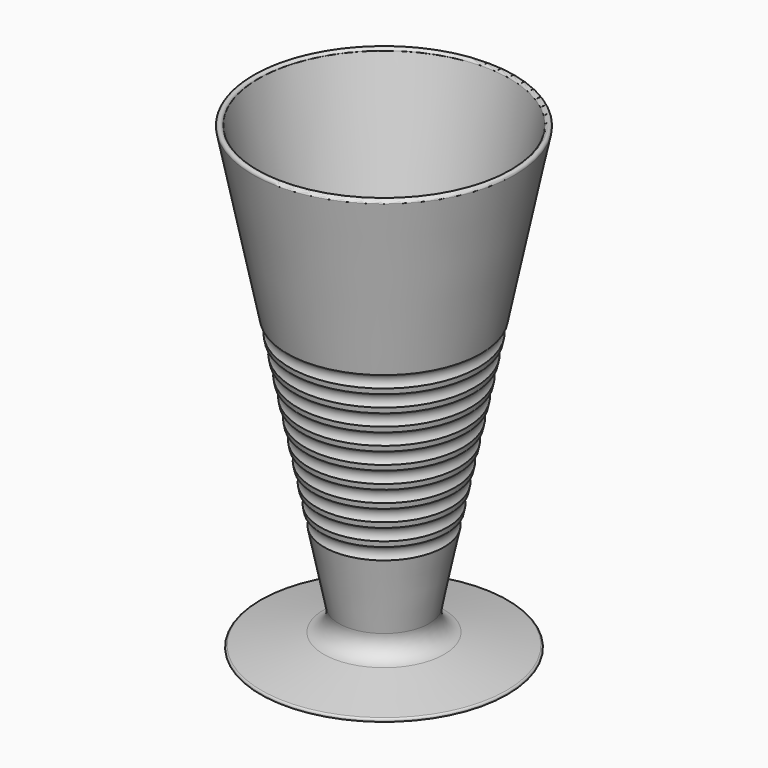
from build123d import *


with BuildPart() as f1:
    # F0 (on Front) → F1 (revolve)
    with BuildSketch(Plane.XZ):
        with BuildLine():
            ThreePointArc((16.017715, 4.047036), (12.78063, 6.165842), (12.024405, 9.960072))
            Line((12.024405, 9.960072), (15.914427, 29.09898))
            ThreePointArc((15.914427, 29.09898), (15.535061, 30.997949), (16.62564, 32.598148))
            Line((16.62564, 32.598148), (16.930687, 34.09898))
            ThreePointArc((16.930687, 34.09898), (16.551321, 35.997949), (17.6419, 37.598148))
            Line((17.6419, 37.598148), (17.946947, 39.09898))
            ThreePointArc((17.946947, 39.09898), (17.567581, 40.997949), (18.65816, 42.598148))
            Line((18.65816, 42.598148), (18.963207, 44.09898))
            ThreePointArc((18.963207, 44.09898), (18.583842, 45.997949), (19.67442, 47.598148))
            Line((19.67442, 47.598148), (19.979468, 49.09898))
            ThreePointArc((19.979468, 49.09898), (19.600102, 50.997949), (20.69068, 52.598148))
            Line((20.69068, 52.598148), (20.995728, 54.09898))
            ThreePointArc((20.995728, 54.09898), (20.616362, 55.997949), (21.706941, 57.598148))
            Line((21.706941, 57.598148), (22.011988, 59.09898))
            ThreePointArc((22.011988, 59.09898), (21.632622, 60.997949), (22.723201, 62.598148))
            Line((22.723201, 62.598148), (23.028248, 64.09898))
            ThreePointArc((23.028248, 64.09898), (22.648882, 65.997949), (23.739461, 67.598148))
            Line((23.739461, 67.598148), (24.044508, 69.09898))
            ThreePointArc((24.044508, 69.09898), (23.665142, 70.997949), (24.755721, 72.598148))
            Line((24.755721, 72.598148), (25.060768, 74.09898))
            ThreePointArc((25.060768, 74.09898), (24.681403, 75.997949), (25.771981, 77.598148))
            Line((25.771981, 77.598148), (34.885069, 122.434542))
            ThreePointArc((34.885069, 122.434542), (34.299482, 123.318899), (33.415125, 122.733311))
            Line((33.415125, 122.733311), (15.298771, 33.600849))
            ThreePointArc((15.298771, 33.600849), (11.118729, 26.687726), (3.503481, 23.991056))
            Line((3.503481, 23.991056), (0.517867, 23.999947))
            ThreePointArc((0.517867, 23.999947), (0.5, 23.999987), (0.482133, 24))
            Line((0.482133, 24), (0, 24))
            Line((0, 24), (0, 1.2))
            Line((0, 1.2), (32.5, 0))
            ThreePointArc((32.5, 0), (32.997924, 0.454486), (32.59065, 0.991714))
            Line((32.59065, 0.991714), (16.017715, 4.047036))
        make_face()
    revolve(axis=Axis((0, 0, 12.6), (0, 0, 1)))


solid = f1.part
